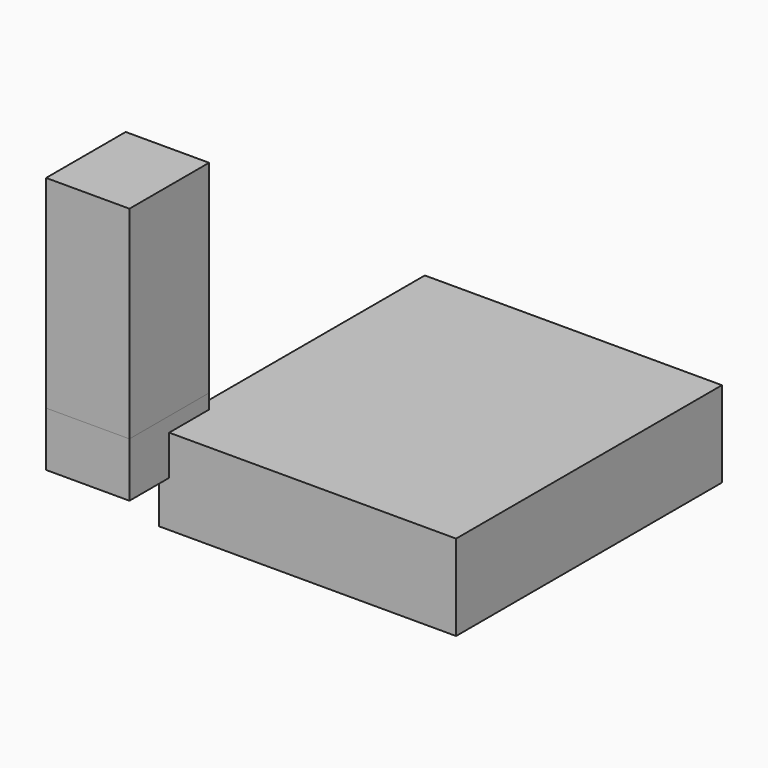
from build123d import *

# Parameters (mm, degrees)
F0_W      = 38.879879
F0_H      = 46.402537
F1_DEPTH  = 25.4
F1_FACE_W = 38.879878
F1_FACE_H = 46.402536
F2_DEPTH  = 94.488
F3_W      = 138.539091
F3_H      = 39.992792
F4_DEPTH  = 154.94


with BuildPart() as f1:
    # F0 (on Top) → F1 (new body)
    with BuildSketch(Plane.XY):
        with Locations((-87.17953, 0.055472)):
            Rectangle(F0_W, F0_H)
    extrude(amount=F1_DEPTH)

    # F1_face (on face) → F2 (join)
    with BuildSketch(Plane(origin=(-87.17953, 0.055471, 25.4), x_dir=(1, 0, 0), z_dir=(0, 0, 1))):
        Rectangle(F1_FACE_W, F1_FACE_H)
    extrude(amount=F2_DEPTH)


with BuildPart() as f4:
    # F3 (on Front) → F4 (new body)
    with BuildSketch(Plane.XZ):
        with Locations((-3.217898, -1.437015)):
            Rectangle(F3_W, F3_H)
    extrude(amount=-F4_DEPTH)


solid = Compound([f1.part, f4.part])
